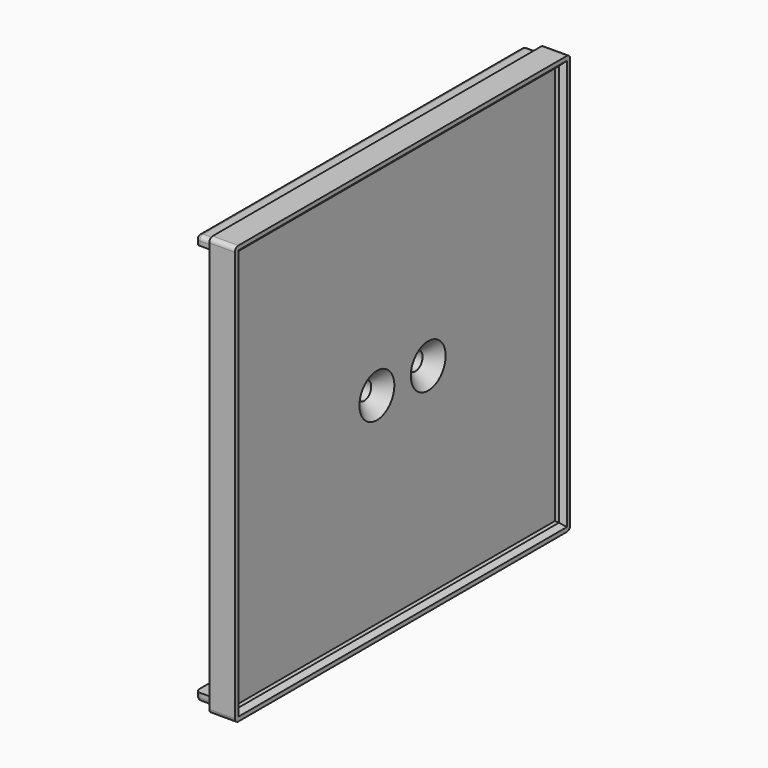
from build123d import *

# Parameters (mm, degrees)
SKETCH009_W     = 98
SKETCH009_H     = 98
PAD006_DEPTH    = 4
SKETCH010_W     = 28
SKETCH010_H     = 50
PAD007_DEPTH    = 2
SKETCH011_R     = 2.1
POCKET003_DEPTH = 6
PAD008_DEPTH    = 4
SKETCH013_W     = 98
SKETCH013_H     = 98
SKETCH013_W_2   = 94
SKETCH013_H_2   = 94
PAD009_DEPTH    = 2
CHAMFER002_SIZE = 3
CHAMFER003_SIZE = 3
CHAMFER004_SIZE = 1
CHAMFER005_SIZE = 1
CHAMFER006_SIZE = 1
CHAMFER007_SIZE = 1
FILLET_R        = 1
FILLET001_R     = 1
FILLET002_R     = 1
FILLET003_R     = 1
FILLET004_R     = 1
FILLET005_R     = 1
FILLET006_R     = 1
FILLET007_R     = 1
FILLET008_R     = 1


with BuildPart() as part:
    # Sketch009 → Pad006 (new body)
    with BuildSketch(Plane.YZ.offset(22)):
        with Locations((115, 0)):
            Rectangle(SKETCH009_W, SKETCH009_H)
    extrude(amount=PAD006_DEPTH)

    # Sketch010 (on Face5 of Pad006) → Pad007 (join)
    with BuildSketch(Plane(origin=(22, 0, 0), x_dir=(0, 1, 0), z_dir=(-1, 0, 0))):
        with Locations((116, 0)):
            Rectangle(SKETCH010_W, SKETCH010_H)
    extrude(amount=PAD007_DEPTH)

    # Sketch011 (on Face11 of Pad007) → Pocket003 (cut)
    with BuildSketch(Plane(origin=(20, 0, 0), x_dir=(0, 1, 0), z_dir=(-1, 0, 0))):
        with Locations((125, 0)):
            Circle(SKETCH011_R)
        with Locations((110, 0)):
            Circle(SKETCH011_R)
    extrude(amount=-POCKET003_DEPTH, mode=Mode.SUBTRACT)

    # Sketch012 (on Face4 of Pocket003) → Pad008 (join)
    with BuildSketch(Plane(origin=(22, 0, 0), x_dir=(0, 1, 0), z_dir=(-1, 0, 0))):
        Polygon((163, 48), (163, -48), (67, -48), (67, -46), (161, -46), (161, 46), (67, 46), (67, 48), align=None)
    extrude(amount=PAD008_DEPTH)

    # Sketch013 (on Face5 of Pad008) → Pad009 (join)
    with BuildSketch(Plane.YZ.offset(26)):
        with Locations((115, 0)):
            Rectangle(SKETCH013_W, SKETCH013_H)
        with Locations((115, 0)):
            Rectangle(SKETCH013_W_2, SKETCH013_H_2, mode=Mode.SUBTRACT)
    extrude(amount=PAD009_DEPTH)

    # Chamfer002
    chamfer002_edges = [part.edges().sort_by_distance(p)[0] for p in [
        (26, 107.9, 0),
    ]]
    chamfer(chamfer002_edges, length=CHAMFER002_SIZE)

    # Chamfer003
    chamfer003_edges = [part.edges().sort_by_distance(p)[0] for p in [
        (26, 122.9, 0),
    ]]
    chamfer(chamfer003_edges, length=CHAMFER003_SIZE)

    # Chamfer004
    chamfer004_edges = [part.edges().sort_by_distance(p)[0] for p in [
        (28, 162, 0),
    ]]
    chamfer(chamfer004_edges, length=CHAMFER004_SIZE)

    # Chamfer005
    chamfer005_edges = [part.edges().sort_by_distance(p)[0] for p in [
        (28, 115, 47),
    ]]
    chamfer(chamfer005_edges, length=CHAMFER005_SIZE)

    # Chamfer006
    chamfer006_edges = [part.edges().sort_by_distance(p)[0] for p in [
        (28, 68, 0.5),
    ]]
    chamfer(chamfer006_edges, length=CHAMFER006_SIZE)

    # Chamfer007
    chamfer007_edges = [part.edges().sort_by_distance(p)[0] for p in [
        (28, 115.5, -47),
    ]]
    chamfer(chamfer007_edges, length=CHAMFER007_SIZE)

    # Fillet
    fillet_edges = [part.edges().sort_by_distance(p)[0] for p in [
        (25, 164, -49),
    ]]
    fillet(fillet_edges, radius=FILLET_R)

    # Fillet001
    fillet001_edges = [part.edges().sort_by_distance(p)[0] for p in [
        (25, 66, -49),
    ]]
    fillet(fillet001_edges, radius=FILLET001_R)

    # Fillet002
    fillet002_edges = [part.edges().sort_by_distance(p)[0] for p in [
        (25, 66, 49),
    ]]
    fillet(fillet002_edges, radius=FILLET002_R)

    # Fillet003
    fillet003_edges = [part.edges().sort_by_distance(p)[0] for p in [
        (25, 164, 49),
    ]]
    fillet(fillet003_edges, radius=FILLET003_R)

    # Fillet004
    fillet004_edges = [part.edges().sort_by_distance(p)[0] for p in [
        (18, 115, -48),
    ]]
    fillet(fillet004_edges, radius=FILLET004_R)

    # Fillet005
    fillet005_edges = [part.edges().sort_by_distance(p)[0] for p in [
        (18, 163, 0.5),
    ]]
    fillet(fillet005_edges, radius=FILLET005_R)

    # Fillet006
    fillet006_edges = [part.edges().sort_by_distance(p)[0] for p in [
        (18, 114.5, 48),
    ]]
    fillet(fillet006_edges, radius=FILLET006_R)

    # Fillet007
    fillet007_edges = [part.edges().sort_by_distance(p)[0] for p in [
        (20.5, 67, -48),
    ]]
    fillet(fillet007_edges, radius=FILLET007_R)

    # Fillet008
    fillet008_edges = [part.edges().sort_by_distance(p)[0] for p in [
        (20.5, 67, 48),
    ]]
    fillet(fillet008_edges, radius=FILLET008_R)


solid = part.part
